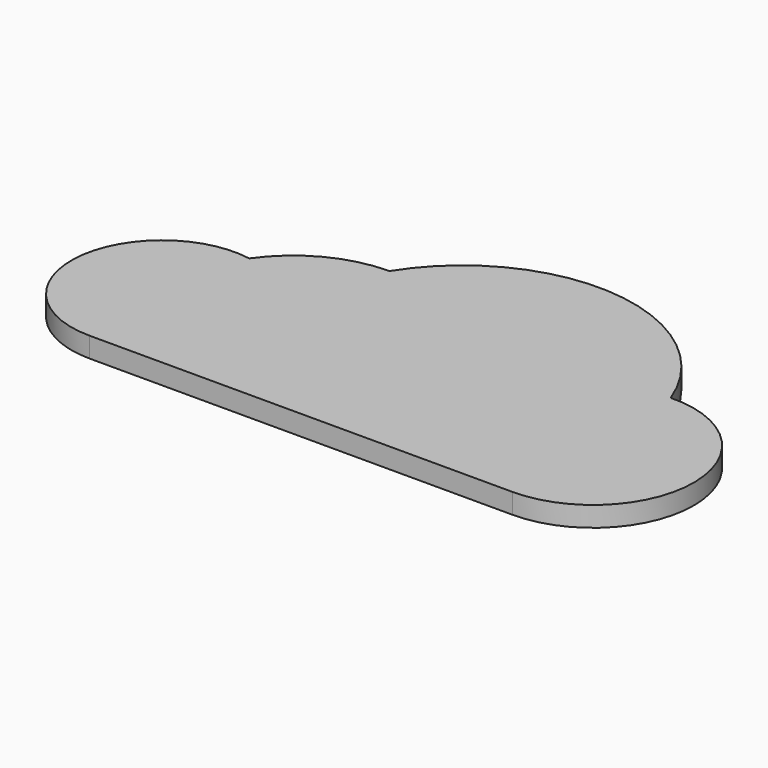
from build123d import *

# Parameters (mm, degrees)
PAD_DEPTH = 2.54


with BuildPart() as part:
    # Sketch → Pad (new body)
    with BuildSketch(Plane.XY):
        with BuildLine():
            ThreePointArc((30.679575, 60.787624), (17.315176, 50.522537), (28.702, 38.1))
            Line((28.702, 38.1), (82.042, 38.1))
            ThreePointArc((82.042, 38.1), (94.740642, 50.985703), (81.670634, 63.494569))
            ThreePointArc((81.670634, 63.494569), (63.596138, 77.364858), (43.151783, 67.309974))
            ThreePointArc((43.151783, 67.309974), (36.117636, 65.574837), (30.679575, 60.787624))
        make_face()
    extrude(amount=PAD_DEPTH)


solid = part.part
